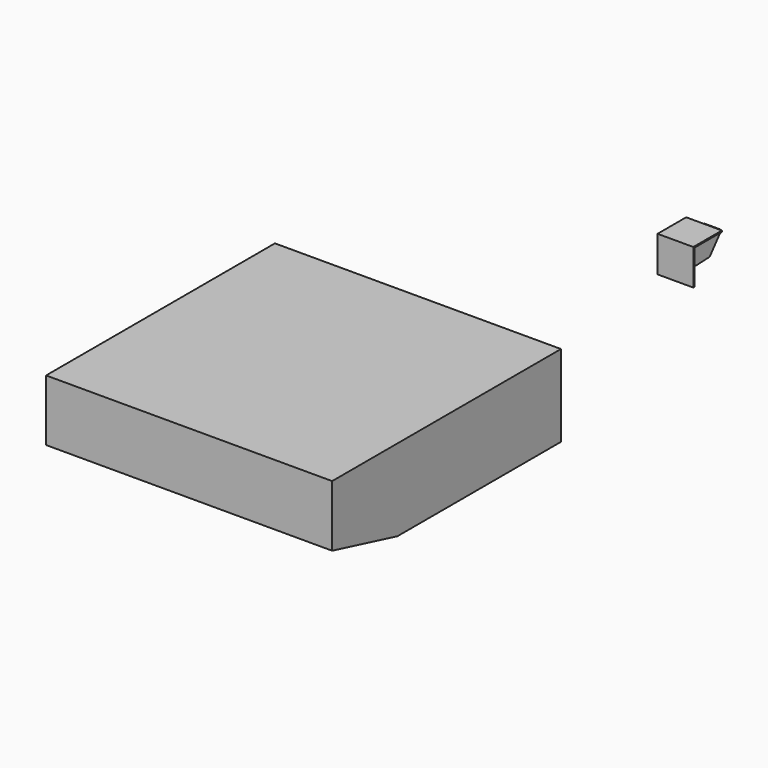
from build123d import *

# Parameters (mm, degrees)
F1_DEPTH = 22.225
F3_DEPTH = 9.525
F5_DEPTH = 101.6
F7_DEPTH = 355.6


with BuildPart() as f1:
    # F0 (on Right) → F1 (new body, symmetric)
    with BuildSketch(Plane.YZ):
        Polygon((44.45, 0), (0, 0), (0, -44.45), (1.524, -44.45), (1.524, -1.524), (44.45, -1.524), align=None)
    extrude(amount=F1_DEPTH, both=True)

    # F2 (on Right) → F3 (join, symmetric)
    with BuildSketch(Plane.YZ):
        Polygon((30.099, -1.524), (1.524, -1.524), (1.524, -33.3248), (41.275, -31.75), (57.15, -12.6873), (57.15, -7.9248), align=None)
    extrude(amount=F3_DEPTH, both=True)


with BuildPart() as f5:
    # F4 (on Top) → F5 (new body)
    with BuildSketch(Plane.XY):
        Polygon((177.8, -755.723699), (177.8, -400.123699), (0, -400.123699), (-177.8, -400.123699), (-177.8, -755.723699), align=None)
    extrude(amount=F5_DEPTH)

    # F6 (on face) → F7 (cut, through all)
    with BuildSketch(Plane(origin=(-177.8, 0, 0), x_dir=(0, -1, 0), z_dir=(-1, 0, 0))):
        Polygon((755.723699, 0), (755.723699, 25.4), (654.123699, 0), align=None)
    extrude(amount=-F7_DEPTH, mode=Mode.SUBTRACT)


solid = Compound([f1.part, f5.part])
